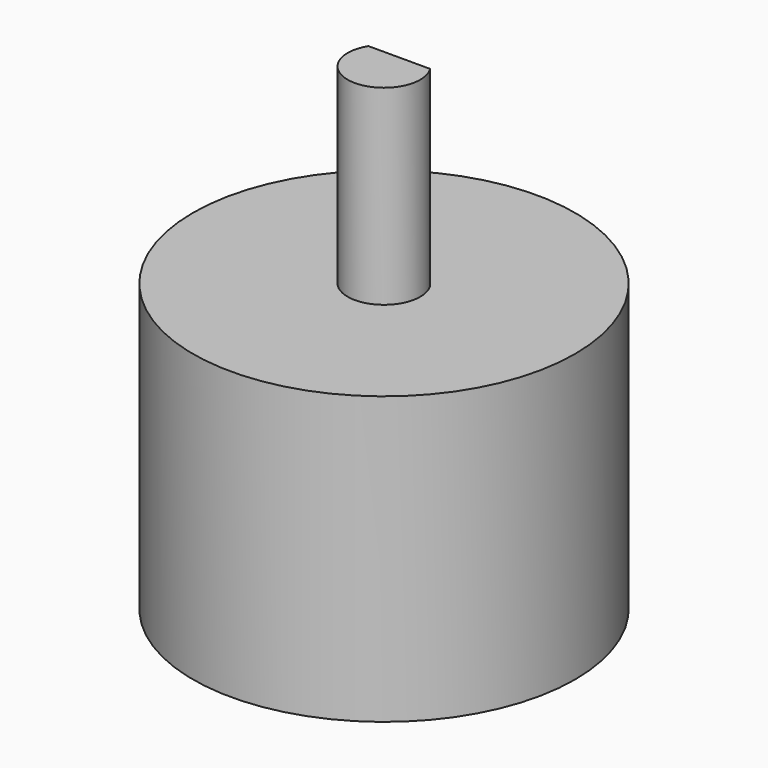
from build123d import *

# Parameters (mm, degrees)
F0_R     = 10
F1_DEPTH = 15
F3_DEPTH = 10
F5_DEPTH = 10


with BuildPart() as f1:
    # F0 (on Top) → F1 (new body)
    with BuildSketch(Plane.XY):
        Circle(F0_R)
    extrude(amount=F1_DEPTH)

    # F2 (on face) → F3 (cut)
    with BuildSketch(Plane(origin=(0, 0, 0), x_dir=(1, 0, 0), z_dir=(0, 0, -1))):
        with BuildLine():
            Line((-2.516446, -3.3), (2.516446, -3.3))
            ThreePointArc((2.516446, -3.3), (0, 4.15), (-2.516446, -3.3))
        make_face()
    extrude(amount=-F3_DEPTH, mode=Mode.SUBTRACT)

    # F4 (on face) → F5 (join)
    with BuildSketch(Plane.XY.offset(15)):
        with BuildLine():
            Line((1.615549, 1), (-1.615549, 1))
            ThreePointArc((-1.615549, 1), (0, -1.9), (1.615549, 1))
        make_face()
    extrude(amount=F5_DEPTH)


solid = f1.part
